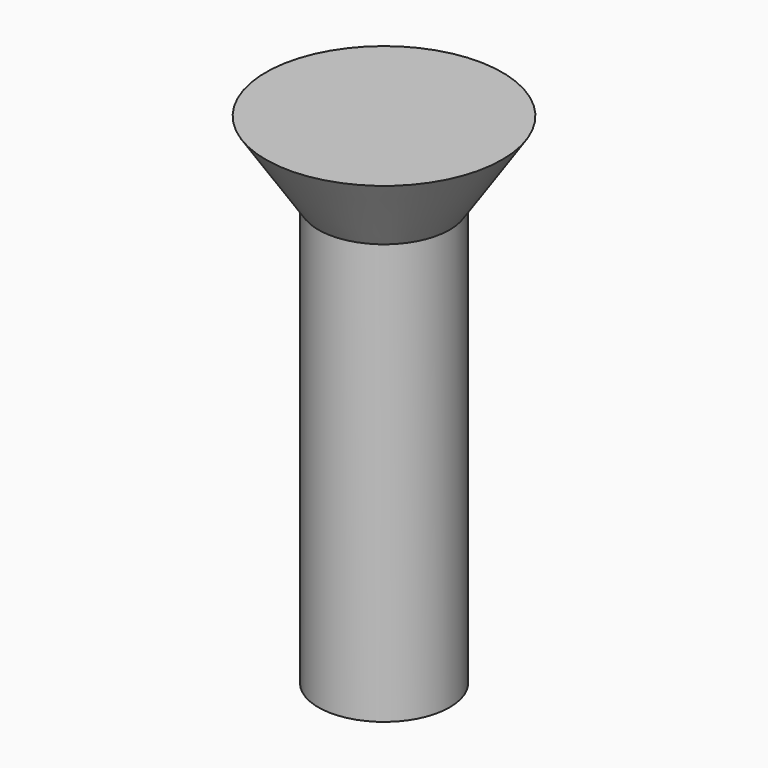
from build123d import *

# Parameters (mm, degrees)
CYLINDER011_R                   = 2.5
CYLINDER011_DEPTH               = 16
FUSION001018017_PLACEMENT_ANGLE = 180
CLONE024_PLACEMENT_ANGLE        = 180


with BuildPart() as cone003:
    # Cone003 → Cone003 (revolve)
    with BuildSketch(Plane(origin=(0, 0, -3), x_dir=(1, 0, 0), z_dir=(0, -1, 0))):
        Polygon((0, 0), (4.5, 0), (2.5, 3), (0, 3), align=None)
    revolve(axis=Axis((0, 0, -3), (0, 0, 1)))


with BuildPart() as obj1:
    # Cylinder011 → Cylinder011 (new body)
    with BuildSketch(Plane.XY):
        Circle(CYLINDER011_R)
    extrude(amount=CYLINDER011_DEPTH)

    # Fusion001018017: union Cone003
    add(cone003.part)


with BuildPart() as obj1_1:
    # Fusion001018017 placement: moved
    add(obj1.part.moved(Location((45, 15, 21))).rotate(Axis((45, 15, 21), (0, 1, 0)), FUSION001018017_PLACEMENT_ANGLE))


with BuildPart() as obj1_2:
    # Clone024 placement: moved
    add(obj1_1.part.moved(Location((90, 270, 0))).rotate(Axis((90, 270, 0), (0, 0, 1)), CLONE024_PLACEMENT_ANGLE))


with BuildPart() as obj1_3:
    # Clone032 placement: moved
    add(obj1_2.part.moved(Location((270, 0, 0))))


with BuildPart() as obj1_4:
    # Clone034 placement: moved
    add(obj1_3.part.moved(Location((26, -30, 5))))


solid = obj1_4.part
